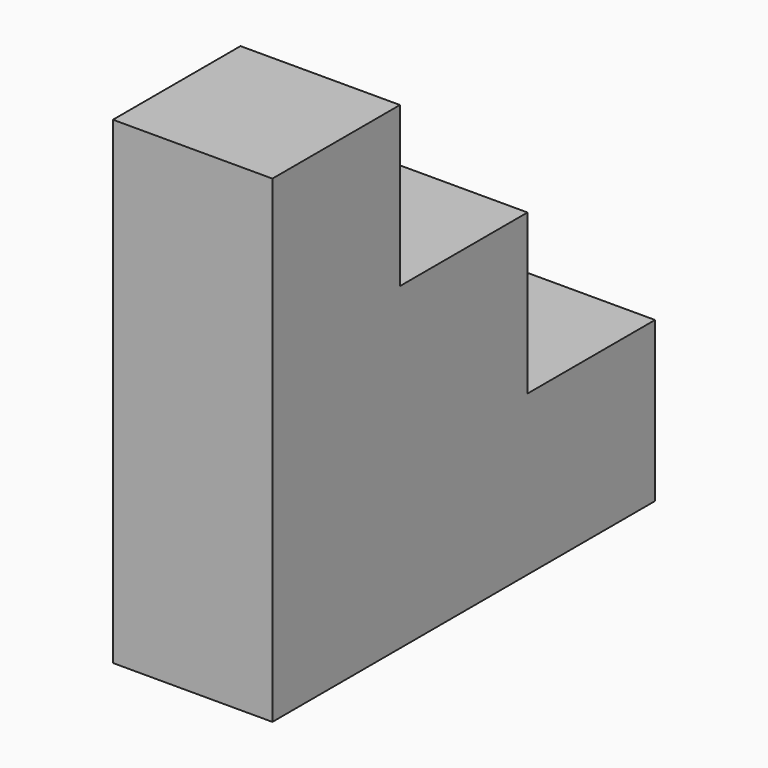
from build123d import *

# Parameters (mm, degrees)
F0_W     = 19.05
F0_H     = 19.05
F1_DEPTH = 19.05
F2_DEPTH = 19.05
F4_DEPTH = 19.05
F3_W     = 19.05
F3_H     = 19.05
F5_DEPTH = 19.05
F6_DEPTH = 19.05
F7_W     = 19.05
F7_H     = 19.05
F8_DEPTH = 19.05


with BuildPart() as f1:
    # F0 (on Top) → F1 (new body)
    with BuildSketch(Plane.XY):
        with Locations((9.525, 9.525)):
            Rectangle(F0_W, F0_H)
    extrude(amount=F1_DEPTH)

    # F2 (add): a face of the model
    f2_faces = [f1.faces().sort_by_distance(p)[0] for p in [
        (9.525, 19.05, 9.525),
    ]]
    extrude(f2_faces, amount=F2_DEPTH)

    # F4 (add): a face of the model
    f4_faces = [f1.faces().sort_by_distance(p)[0] for p in [
        (9.525, 38.1, 9.525),
    ]]
    extrude(f4_faces, amount=F4_DEPTH)

    # F3 (on face) → F5 (join)
    with BuildSketch(Plane.XY.offset(19.05)):
        with Locations((9.525, 9.525)):
            Rectangle(F3_W, F3_H)
    extrude(amount=F5_DEPTH)

    # F6 (add): a face of the model
    f6_faces = [f1.faces().sort_by_distance(p)[0] for p in [
        (9.525, 9.525, 38.1),
    ]]
    extrude(f6_faces, amount=F6_DEPTH)

    # F7 (on face) → F8 (join)
    with BuildSketch(Plane(origin=(0, 19.05, 0), x_dir=(-1, 0, 0), z_dir=(0, 1, 0))):
        with Locations((-9.525, 28.575)):
            Rectangle(F7_W, F7_H)
    extrude(amount=F8_DEPTH)


solid = f1.part
